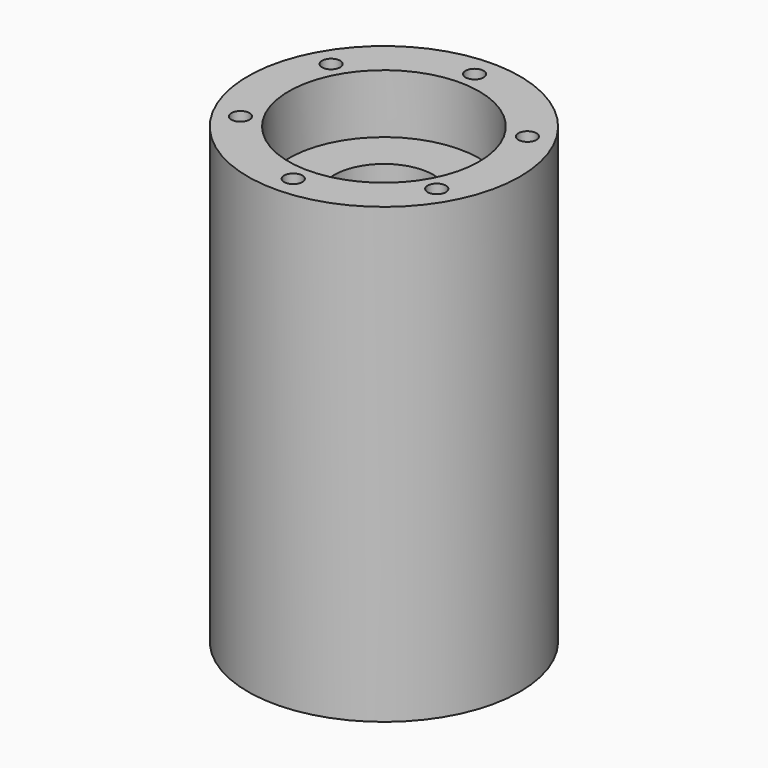
from build123d import *

# Parameters (mm, degrees)
F0_R      = 30
F0_R_2    = 11
F1_DEPTH  = 100
F2_R      = 21
F2_R_2    = 11
F3_DEPTH  = 13
F4_R      = 21
F4_R_2    = 11
F5_DEPTH  = 13
F7_D      = 8
F7_DEPTH  = 30.001
F9_D      = 4
F9_DEPTH  = 30
F9_TIP    = 1.2017212381
F11_D     = 4
F11_DEPTH = 30
F11_TIP   = 1.2017212381


with BuildPart() as f1:
    # F0 (on Top) → F1 (new body)
    with BuildSketch(Plane.XY):
        Circle(F0_R)
        Circle(F0_R_2, mode=Mode.SUBTRACT)
    extrude(amount=F1_DEPTH)

    # F2 (on face) → F3 (cut)
    with BuildSketch(Plane.XY.offset(100)):
        Circle(F2_R)
        Circle(F2_R_2, mode=Mode.SUBTRACT)
    extrude(amount=-F3_DEPTH, mode=Mode.SUBTRACT)

    # F4 (on face) → F5 (cut)
    with BuildSketch(Plane(origin=(0, 0, 0), x_dir=(1, 0, 0), z_dir=(0, 0, -1))):
        Circle(F4_R)
        Circle(F4_R_2, mode=Mode.SUBTRACT)
    extrude(amount=-F5_DEPTH, mode=Mode.SUBTRACT)

    # F7 (through all, one way)
    with BuildSketch(Plane.YZ):
        with Locations((0, 80)):
            Circle(F7_D / 2)
    extrude(amount=-F7_DEPTH, mode=Mode.SUBTRACT)

    # F9
    with Locations(Plane.XY.offset(100)):
        with Locations((0, 25), (21.6506350946, 12.5), (21.6506350946, -12.5), (0, -25), (-21.6506350946, -12.5), (-21.6506350946, 12.5)):
            Hole(F9_D / 2, depth=F9_DEPTH)
            with Locations((0, 0, -(F9_DEPTH + F9_TIP / 2))):  # 118° drill point
                Cone(0, F9_D / 2, F9_TIP, mode=Mode.SUBTRACT)

    # F11
    with Locations(Plane(origin=(0, 0, 0), x_dir=(1, 0, 0), z_dir=(0, 0, -1))):
        with Locations((0, 25), (21.6506350946, 12.5), (21.6506350946, -12.5), (0, -25), (-21.6506350946, -12.5), (-21.6506350946, 12.5)):
            Hole(F11_D / 2, depth=F11_DEPTH)
            with Locations((0, 0, -(F11_DEPTH + F11_TIP / 2))):  # 118° drill point
                Cone(0, F11_D / 2, F11_TIP, mode=Mode.SUBTRACT)


solid = f1.part
